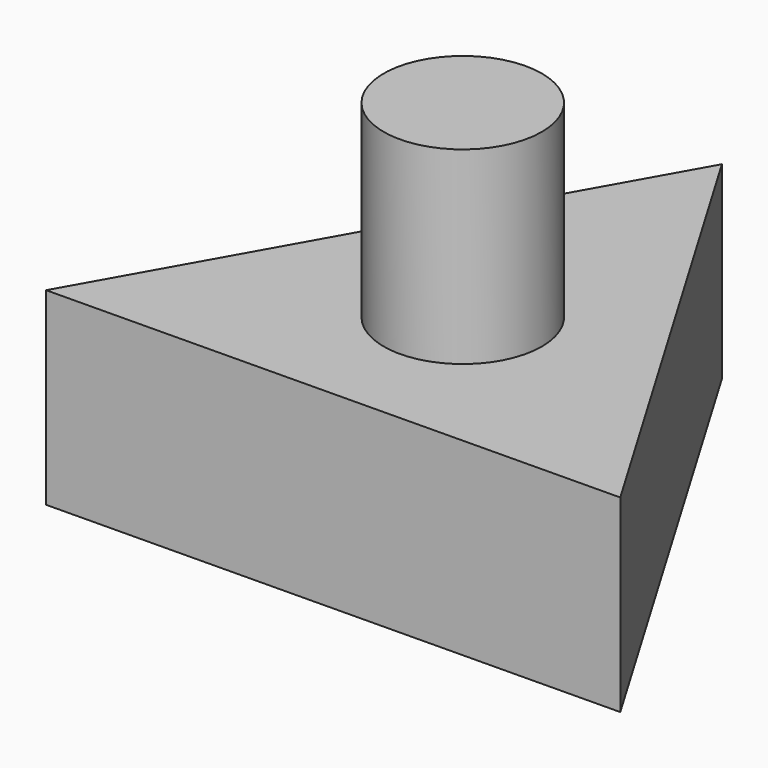
from build123d import *

# Parameters (mm, degrees)
F1_DEPTH = 25.4
F2_R     = 10.634514
F3_DEPTH = 25.4
F4_R     = 5.192433
F5_DEPTH = 50.8


with BuildPart() as f1:
    # F0 (on Top) → F1 (new body)
    with BuildSketch(Plane.XY):
        Polygon((-0.495151, 44.171312), (-38.005903, -22.514469), (38.501054, -21.656843), align=None)
    extrude(amount=F1_DEPTH)

    # F2 (on face) → F3 (join)
    with BuildSketch(Plane.XY.offset(25.4)):
        Circle(F2_R)
    extrude(amount=F3_DEPTH)

    # F4 (on face) → F5 (join)
    with BuildSketch(Plane.XY.offset(50.8)):
        Circle(F4_R)
    extrude(amount=-F5_DEPTH)


solid = f1.part
